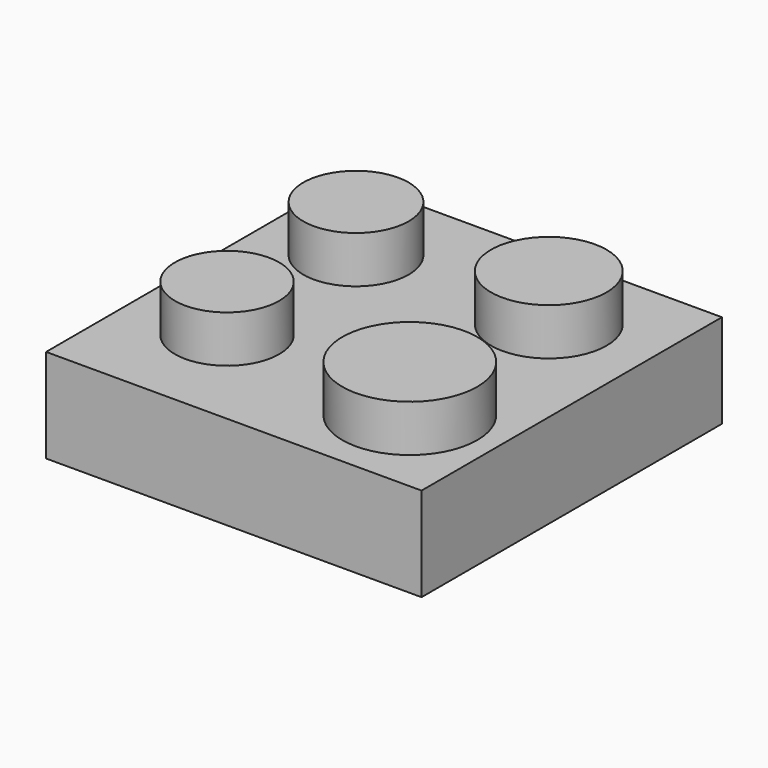
from build123d import *

# Parameters (mm, degrees)
F0_W     = 50.8
F0_H     = 50.8
F1_DEPTH = 12.7
F2_R     = 7.124416
F3_DEPTH = 6.35
F2_R_2   = 7.81729
F4_DEPTH = 6.35
F2_R_3   = 7.053422
F5_DEPTH = 6.35
F2_R_4   = 9.132211
F6_DEPTH = 6.35


with BuildPart() as f1:
    # F0 (on Top) → F1 (new body)
    with BuildSketch(Plane.XY):
        Rectangle(F0_W, F0_H)
    extrude(amount=F1_DEPTH)

    # F2 (on face) → F3 (join)
    with BuildSketch(Plane.XY.offset(12.7)):
        with Locations((-13.650993, 12.323814)):
            Circle(F2_R)
    extrude(amount=F3_DEPTH)

    # F2 (on face) → F4 (join)
    with BuildSketch(Plane.XY.offset(12.7)):
        with Locations((12.134215, 12.703009)):
            Circle(F2_R_2)
    extrude(amount=F4_DEPTH)

    # F2 (on face) → F5 (join)
    with BuildSketch(Plane.XY.offset(12.7)):
        with Locations((-12.892607, -10.427844)):
            Circle(F2_R_3)
    extrude(amount=F5_DEPTH)

    # F2 (on face) → F6 (join)
    with BuildSketch(Plane.XY.offset(12.7)):
        with Locations((13.650997, -12.703009)):
            Circle(F2_R_4)
    extrude(amount=F6_DEPTH)


solid = f1.part
